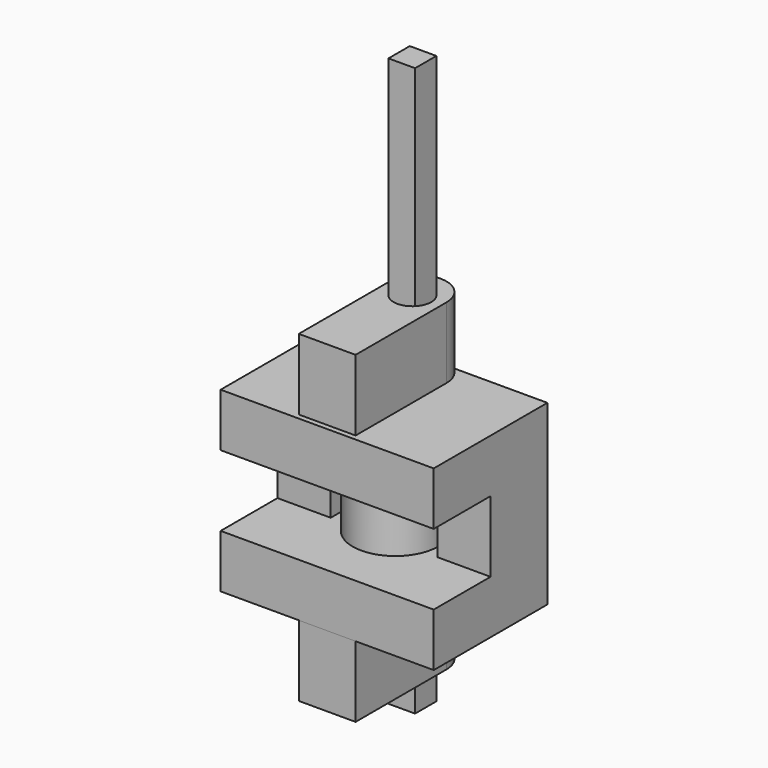
from build123d import *

# Parameters (mm, degrees)
F0_W      = 30
F0_H      = 20
F1_DEPTH  = 25
F2_W      = 30
F2_H      = 10
F3_DEPTH  = 10
F4_W      = 15
F4_H      = 10
F5_DEPTH  = 10.001
F6_R      = 2.65
F7_DEPTH  = 25
F8_W      = 3.747666
F8_H      = 3.747666
F9_DEPTH  = 40
F10_R     = 6
F10_R_2   = 2.65
F11_DEPTH = 10
F12_R     = 2.65
F13_DEPTH = 10


with BuildPart() as f1:
    # F0 (on Top) → F1 (new body)
    with BuildSketch(Plane.XY):
        with Locations((15, 10)):
            Rectangle(F0_W, F0_H)
    extrude(amount=F1_DEPTH)

    # F2 (on face) → F3 (cut)
    with BuildSketch(Plane.XZ):
        with Locations((15, 12.5)):
            Rectangle(F2_W, F2_H)
    extrude(amount=-F3_DEPTH, mode=Mode.SUBTRACT)

    # F4 (on face) → F5 (cut, through all)
    with BuildSketch(Plane.XZ.offset(-10)):
        with Locations((15, 12.5)):
            Rectangle(F4_W, F4_H)
    extrude(amount=-F5_DEPTH, mode=Mode.SUBTRACT)

    # F6 (on face) → F7 (cut, symmetric)
    with BuildSketch(Plane.XY.offset(7.5)):
        with Locations((15, 15)):
            Circle(F6_R)
    extrude(amount=F7_DEPTH, both=True, mode=Mode.SUBTRACT)


with BuildPart() as f9:
    # F8 (on face) → F9 (new body, symmetric)
    with BuildSketch(Plane.XY.offset(25)):
        with Locations((15, 15)):
            Rectangle(F8_W, F8_H)
    extrude(amount=F9_DEPTH, both=True)


with BuildPart() as f11:
    # F10 (on face) → F11 (new body, through all)
    with BuildSketch(Plane(origin=(0, 0, 17.5), x_dir=(1, 0, 0), z_dir=(0, 0, -1))):
        with Locations((15, -12)):
            Circle(F10_R)
        with Locations((15, -15)):
            Circle(F10_R_2, mode=Mode.SUBTRACT)
    extrude(amount=F11_DEPTH)


with BuildPart() as f13:
    # F12 (on face) → F13 (new body)
    with BuildSketch(Plane(origin=(0, 0, 0), x_dir=(1, 0, 0), z_dir=(0, 0, -1))):
        with BuildLine():
            Line((19, -16), (19, 0))
            Line((19, 0), (11, 0))
            Line((11, 0), (11, -16))
            ThreePointArc((11, -16), (12.171573, -18.828427), (15, -20))
            ThreePointArc((15, -20), (17.828427, -18.828427), (19, -16))
        make_face()
        with Locations((15, -15)):
            Circle(F12_R, mode=Mode.SUBTRACT)
    extrude(amount=F13_DEPTH)


with BuildPart() as f14_1:
    # F14: copy of F13
    add(f13.part.moved(Location((0, 0, 35.5))))


solid = Compound([f1.part, f9.part, f11.part, f13.part, f14_1.part])
